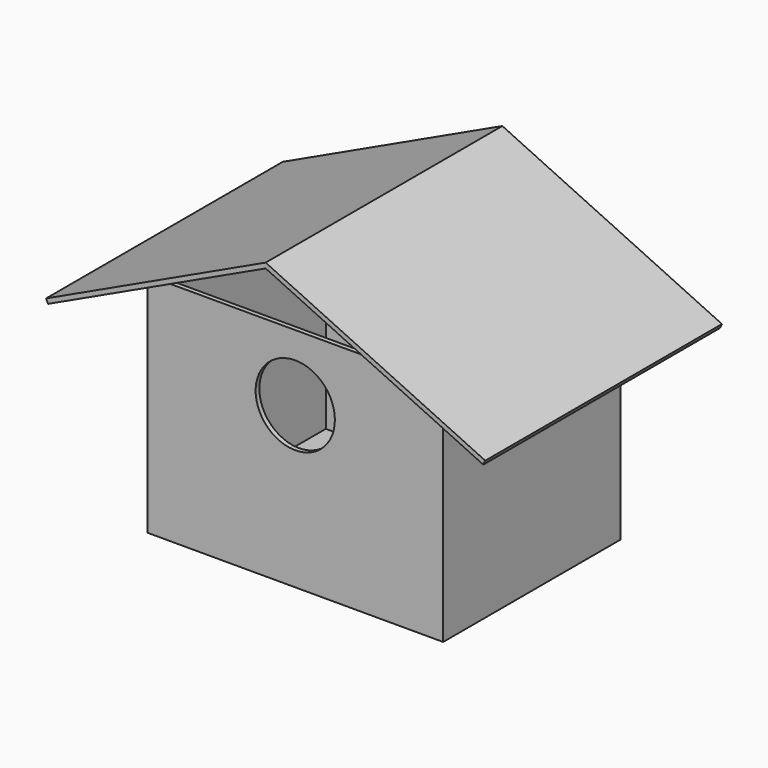
from build123d import *

# Parameters (mm, degrees)
F0_W     = 203.2
F0_H     = 152.4
F1_DEPTH = 3.175
F2_W     = 203.2
F2_H     = 152.4
F2_W_2   = 196.85
F2_H_2   = 146.05
F3_DEPTH = 152.4
F5_DEPTH = 101.6
F6_R     = 27.210092
F7_DEPTH = 25.4


with BuildPart() as f1:
    # F0 (on Top) → F1 (new body)
    with BuildSketch(Plane.XY):
        Rectangle(F0_W, F0_H)
    extrude(amount=F1_DEPTH)

    # F2 (on face) → F3 (join)
    with BuildSketch(Plane.XY.offset(3.175)):
        Rectangle(F2_W, F2_H)
        Rectangle(F2_W_2, F2_H_2, mode=Mode.SUBTRACT)
    extrude(amount=F3_DEPTH)

    # F6 (on face) → F7 (cut)
    with BuildSketch(Plane.XZ.offset(76.2)):
        with Locations((0, 110.104419)):
            Circle(F6_R)
    extrude(amount=-F7_DEPTH, mode=Mode.SUBTRACT)


with BuildPart() as f5:
    # F4 (on Front) → F5 (new body, symmetric)
    with BuildSketch(Plane.XZ):
        Polygon((-149.49127, 133.125967), (0, 203.2), (149.49127, 133.125967), (150.838848, 136.000799), (0, 206.706509), (-150.838848, 136.000799), align=None)
    extrude(amount=F5_DEPTH, both=True)


solid = Compound([f1.part, f5.part])
